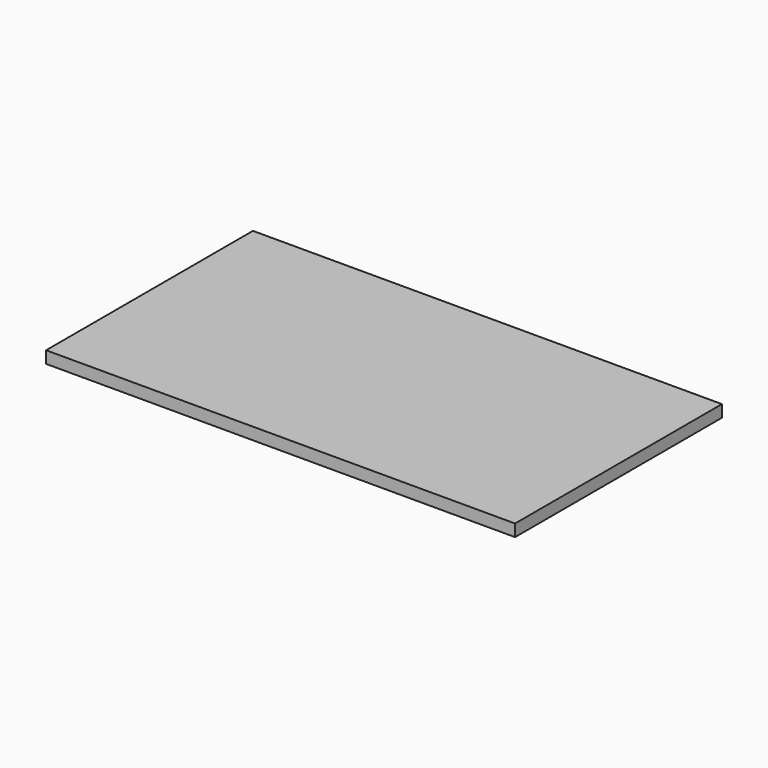
from build123d import *

# Parameters (mm, degrees)
SKETCH_W  = 390
SKETCH_H  = 215
PAD_DEPTH = 10


with BuildPart() as part:
    # Sketch → Pad (new body)
    with BuildSketch(Plane.XY):
        with Locations((-195, 107.5)):
            Rectangle(SKETCH_W, SKETCH_H)
    extrude(amount=PAD_DEPTH)


solid = part.part
